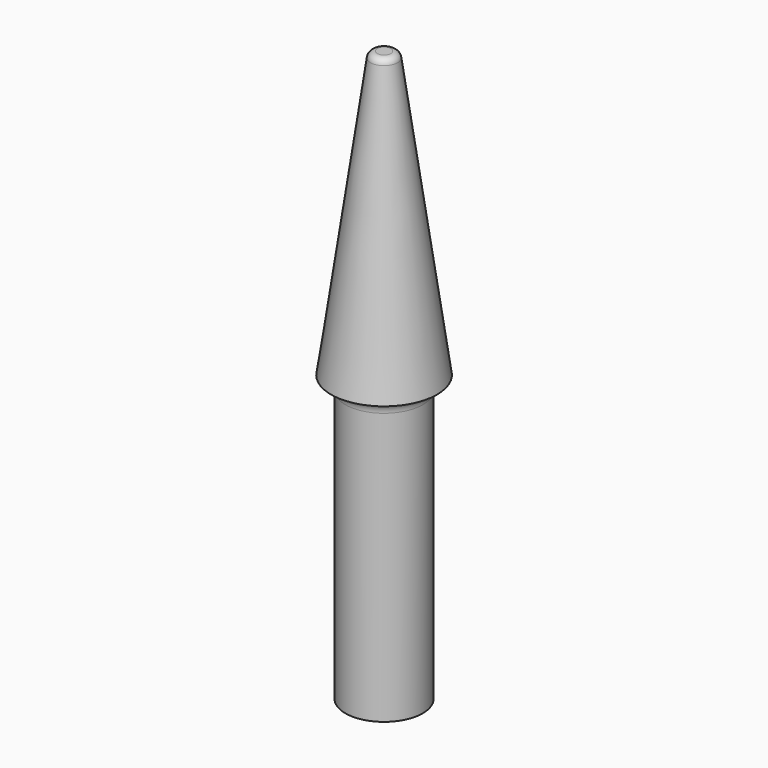
from build123d import *


with BuildPart() as f1:
    # F0 (on Front) → F1 (revolve)
    with BuildSketch(Plane.XZ):
        with BuildLine():
            Line((3.9, 21), (0.995087, 41.569917))
            ThreePointArc((0.995087, 41.569917), (0.827904, 41.877464), (0.5, 42))
            Line((0.5, 42), (0, 42))
            Line((0, 42), (0, 0))
            Line((0, 0), (2.85, 0))
            Line((2.85, 0), (2.85, 20))
            ThreePointArc((2.85, 20), (3.142893, 20.707107), (3.85, 21))
            Line((3.85, 21), (3.9, 21))
        make_face()
    revolve(axis=Axis((0, 0, 21), (0, 0, 1)))


solid = f1.part
